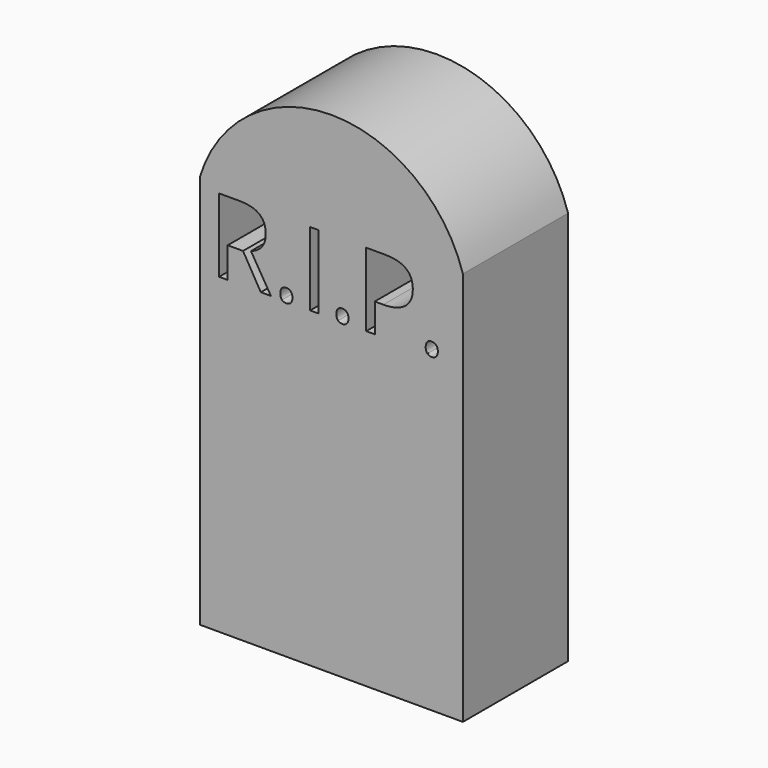
from build123d import *

# Parameters (mm, degrees)
F0_W     = 0.8246570578
F0_H     = 7.0957779608
F1_DEPTH = 12.7


with BuildPart() as f1:
    # F0 (on Front) → F1 (new body)
    with BuildSketch(Plane.XZ):
        with BuildLine():
            Line((-12.7, 42.7736016706), (-12.7, 4.6736016706))
            Line((-12.7, 4.6736016706), (12.7, 4.6736016706))
            Line((12.7, 4.6736016706), (12.7, 42.7736016706))
            ThreePointArc((12.7, 42.7736016706), (0, 52.1625039349), (-12.7, 42.7736016706))
        make_face()
        with BuildLine():
            Line((-8.5354572633, 37.815019498), (-10.0170445197, 37.815019498))
            Line((-10.0170445197, 37.815019498), (-10.0170445197, 34.864269197))
            Line((-10.0170445197, 34.864269197), (-10.8417015775, 34.864269197))
            Line((-10.8417015775, 34.864269197), (-10.8417015775, 41.9600471578))
            Line((-10.8417015775, 41.9600471578), (-8.8957594053, 41.9600471578))
            add(Edge.make_bspline(
                [(-8.8957594053, 41.9600471578), (-7.5896641404, 41.9600471578), (-6.966124011, 41.4599726331)],
                knots=[0, 0, 0, 1, 1, 1], degree=2))
            add(Edge.make_bspline(
                [(-6.966124011, 41.4599726331), (-6.3425838816, 40.9598981084), (-6.3425838816, 39.9550899795)],
                knots=[0, 0, 0, 1, 1, 1], degree=2))
            add(Edge.make_bspline(
                [(-6.3425838816, 39.9550899795), (-6.3425838816, 38.5480479939), (-7.7698152115, 38.0526325486)],
                knots=[0, 0, 0, 1, 1, 1], degree=2))
            Line((-7.7698152115, 38.0526325486), (-5.8425093569, 34.864269197))
            Line((-5.8425093569, 34.864269197), (-6.8178099827, 34.864269197))
            Line((-6.8178099827, 34.864269197), (-8.5354572633, 37.815019498))
        make_face(mode=Mode.SUBTRACT)
        with BuildLine():
            add(Edge.make_bspline(
                [(-4.7732506294, 34.8759168955), (-4.935541896, 35.0288900033), (-4.935541896, 35.37832096)],
                knots=[0, 0, 0, 1, 1, 1], degree=2))
            add(Edge.make_bspline(
                [(-4.935541896, 35.37832096), (-4.935541896, 35.7044565195), (-4.7872278677, 35.8714068655)],
                knots=[0, 0, 0, 1, 1, 1], degree=2))
            add(Edge.make_bspline(
                [(-4.7872278677, 35.8714068655), (-4.6389138394, 36.0383572115), (-4.362475127, 36.0383572115)],
                knots=[0, 0, 0, 1, 1, 1], degree=2))
            add(Edge.make_bspline(
                [(-4.362475127, 36.0383572115), (-4.0813773351, 36.0383572115), (-3.923745148, 35.8714068655)],
                knots=[0, 0, 0, 1, 1, 1], degree=2))
            add(Edge.make_bspline(
                [(-3.923745148, 35.8714068655), (-3.7661129609, 35.7044565195), (-3.7661129609, 35.37832096)],
                knots=[0, 0, 0, 1, 1, 1], degree=2))
            add(Edge.make_bspline(
                [(-3.7661129609, 35.37832096), (-3.7661129609, 35.0630565857), (-3.9260746877, 34.8930001868)],
                knots=[0, 0, 0, 1, 1, 1], degree=2))
            add(Edge.make_bspline(
                [(-3.9260746877, 34.8930001868), (-4.0860364146, 34.7229437878), (-4.362475127, 34.7229437878)],
                knots=[0, 0, 0, 1, 1, 1], degree=2))
            add(Edge.make_bspline(
                [(-4.362475127, 34.7229437878), (-4.6109593629, 34.7229437878), (-4.7732506294, 34.8759168955)],
                knots=[0, 0, 0, 1, 1, 1], degree=2))
        make_face(mode=Mode.SUBTRACT)
        with Locations((-1.6407962309, 38.4121581774)):
            Rectangle(F0_W, F0_H, mode=Mode.SUBTRACT)
        with BuildLine():
            add(Edge.make_bspline(
                [(0.6421526862, 34.8759168955), (0.4798614197, 35.0288900033), (0.4798614197, 35.37832096)],
                knots=[0, 0, 0, 1, 1, 1], degree=2))
            add(Edge.make_bspline(
                [(0.4798614197, 35.37832096), (0.4798614197, 35.7044565195), (0.628175448, 35.8714068655)],
                knots=[0, 0, 0, 1, 1, 1], degree=2))
            add(Edge.make_bspline(
                [(0.628175448, 35.8714068655), (0.7764894763, 36.0383572115), (1.0529281887, 36.0383572115)],
                knots=[0, 0, 0, 1, 1, 1], degree=2))
            add(Edge.make_bspline(
                [(1.0529281887, 36.0383572115), (1.3340259805, 36.0383572115), (1.4916581677, 35.8714068655)],
                knots=[0, 0, 0, 1, 1, 1], degree=2))
            add(Edge.make_bspline(
                [(1.4916581677, 35.8714068655), (1.6492903548, 35.7044565195), (1.6492903548, 35.37832096)],
                knots=[0, 0, 0, 1, 1, 1], degree=2))
            add(Edge.make_bspline(
                [(1.6492903548, 35.37832096), (1.6492903548, 35.0630565857), (1.4893286279, 34.8930001868)],
                knots=[0, 0, 0, 1, 1, 1], degree=2))
            add(Edge.make_bspline(
                [(1.4893286279, 34.8930001868), (1.3293669011, 34.7229437878), (1.0529281887, 34.7229437878)],
                knots=[0, 0, 0, 1, 1, 1], degree=2))
            add(Edge.make_bspline(
                [(1.0529281887, 34.7229437878), (0.8044439528, 34.7229437878), (0.6421526862, 34.8759168955)],
                knots=[0, 0, 0, 1, 1, 1], degree=2))
        make_face(mode=Mode.SUBTRACT)
        with BuildLine():
            add(Edge.make_bspline(
                [(5.2026149278, 41.9600471578), (7.8613962517, 41.9600471578), (7.8613962517, 39.8929689206)],
                knots=[0, 0, 0, 1, 1, 1], degree=2))
            add(Edge.make_bspline(
                [(7.8613962517, 39.8929689206), (7.8613962517, 38.8151685474), (7.1260382162, 38.2351131593)],
                knots=[0, 0, 0, 1, 1, 1], degree=2))
            add(Edge.make_bspline(
                [(7.1260382162, 38.2351131593), (6.3906801806, 37.6550577712), (5.0224638568, 37.6550577712)],
                knots=[0, 0, 0, 1, 1, 1], degree=2))
            Line((5.0224638568, 37.6550577712), (4.1869356137, 37.6550577712))
            Line((4.1869356137, 37.6550577712), (4.1869356137, 34.864269197))
            Line((4.1869356137, 34.864269197), (3.3622785559, 34.864269197))
            Line((3.3622785559, 34.864269197), (3.3622785559, 41.9600471578))
            Line((3.3622785559, 41.9600471578), (5.2026149278, 41.9600471578))
        make_face(mode=Mode.SUBTRACT)
        with BuildLine():
            add(Edge.make_bspline(
                [(9.2707677771, 34.8759168955), (9.1084765105, 35.0288900033), (9.1084765105, 35.37832096)],
                knots=[0, 0, 0, 1, 1, 1], degree=2))
            add(Edge.make_bspline(
                [(9.1084765105, 35.37832096), (9.1084765105, 35.7044565195), (9.2567905388, 35.8714068655)],
                knots=[0, 0, 0, 1, 1, 1], degree=2))
            add(Edge.make_bspline(
                [(9.2567905388, 35.8714068655), (9.4051045671, 36.0383572115), (9.6815432795, 36.0383572115)],
                knots=[0, 0, 0, 1, 1, 1], degree=2))
            add(Edge.make_bspline(
                [(9.6815432795, 36.0383572115), (9.9626410714, 36.0383572115), (10.1202732585, 35.8714068655)],
                knots=[0, 0, 0, 1, 1, 1], degree=2))
            add(Edge.make_bspline(
                [(10.1202732585, 35.8714068655), (10.2779054456, 35.7044565195), (10.2779054456, 35.37832096)],
                knots=[0, 0, 0, 1, 1, 1], degree=2))
            add(Edge.make_bspline(
                [(10.2779054456, 35.37832096), (10.2779054456, 35.0630565857), (10.1179437188, 34.8930001868)],
                knots=[0, 0, 0, 1, 1, 1], degree=2))
            add(Edge.make_bspline(
                [(10.1179437188, 34.8930001868), (9.957981992, 34.7229437878), (9.6815432795, 34.7229437878)],
                knots=[0, 0, 0, 1, 1, 1], degree=2))
            add(Edge.make_bspline(
                [(9.6815432795, 34.7229437878), (9.4330590437, 34.7229437878), (9.2707677771, 34.8759168955)],
                knots=[0, 0, 0, 1, 1, 1], degree=2))
        make_face(mode=Mode.SUBTRACT)
    extrude(amount=F1_DEPTH)


solid = f1.part
